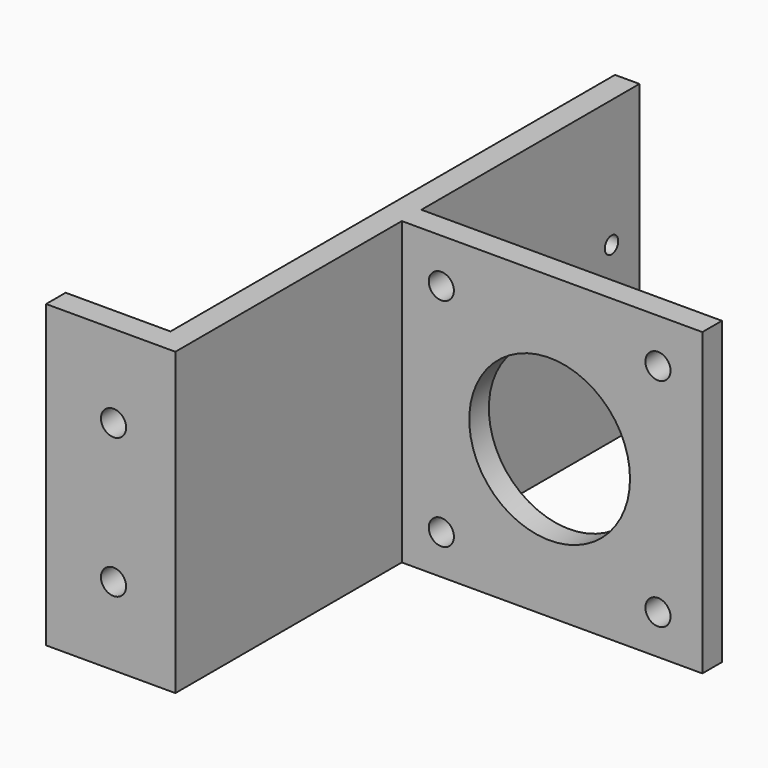
from build123d import *

# Parameters (mm, degrees)
PAD_DEPTH       = 43
SKETCH001_R     = 11.5
SKETCH001_R_2   = 1.8
POCKET_DEPTH    = 83.001
SKETCH002_R     = 1.2
POCKET001_DEPTH = 3.5


with BuildPart() as part:
    # Sketch → Pad (new body)
    with BuildSketch(Plane.XY):
        Polygon((-18.5, 3.5), (-3.5, 3.5), (-3.5, 83), (0, 83), (0, 44), (43, 44), (43, 40.5), (0, 40.5), (0, 0), (-18.5, 0), align=None)
    extrude(amount=PAD_DEPTH)

    # Sketch001 → Pocket (cut, through all)
    with BuildSketch(Plane.XZ):
        with Locations((21.15, 21.15)):
            Circle(SKETCH001_R)
        with Locations((5.65, 36.65)):
            Circle(SKETCH001_R_2)
        with Locations((36.65, 36.65)):
            Circle(SKETCH001_R_2)
        with Locations((36.65, 5.65)):
            Circle(SKETCH001_R_2)
        with Locations((5.65, 5.65)):
            Circle(SKETCH001_R_2)
        with Locations((-8.85, 31.15)):
            Circle(SKETCH001_R_2)
        with Locations((-8.85, 11.15)):
            Circle(SKETCH001_R_2)
    extrude(amount=-POCKET_DEPTH, mode=Mode.SUBTRACT)

    # Sketch002 → Pocket001 (cut)
    with BuildSketch(Plane.YZ):
        with Locations((78, 24.75)):
            Circle(SKETCH002_R)
        with Locations((78, 18.25)):
            Circle(SKETCH002_R)
    extrude(amount=-POCKET001_DEPTH, mode=Mode.SUBTRACT)


solid = part.part
